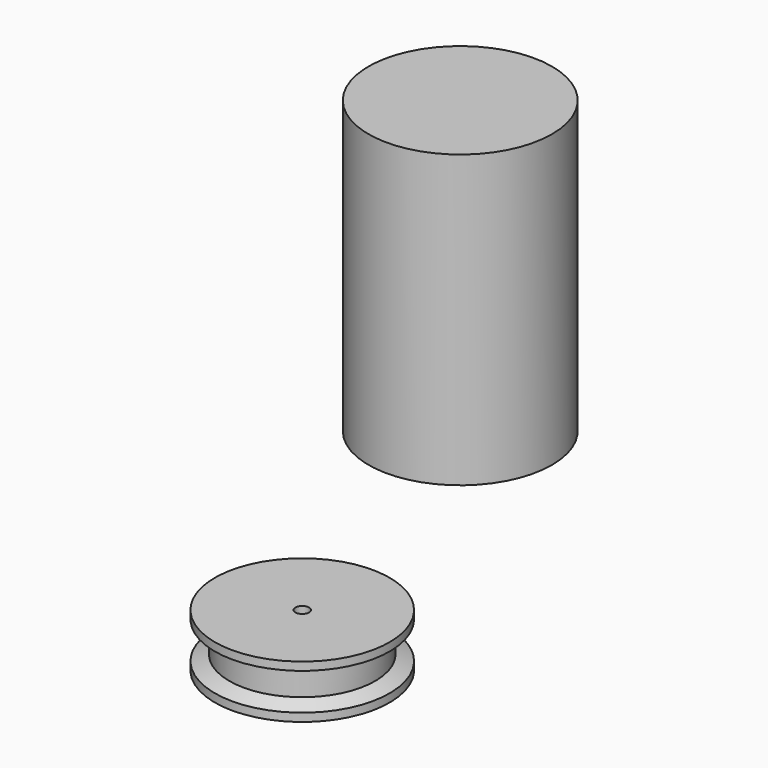
from build123d import *

# Parameters (mm, degrees)
F0_R     = 33.613623
F1_DEPTH = 106.7
F4_R     = 2.5
F5_DEPTH = 27.2


with BuildPart() as f1:
    # F0 (on Top) → F1 (new body)
    with BuildSketch(Plane.XY):
        Circle(F0_R)
    extrude(amount=F1_DEPTH)


with BuildPart() as f3:
    # F2 (on Right) → F3 (revolve)
    with BuildSketch(Plane.YZ):
        Polygon((-72.363789, -28.278395), (-104.363789, -28.278395), (-104.363789, -31.278395), (-99.077389, -33.522339), (-99.077389, -42.522339), (-104.363788, -44.766282), (-104.363788, -47.766282), (-72.363789, -47.766282), align=None)
    revolve(axis=Axis((0, -72.363789, -38.022339), (0, 0, -1)))

    # F4 (on face) → F5 (cut)
    with BuildSketch(Plane.XY.offset(-28.278395)):
        with Locations((0, -72.363789)):
            Circle(F4_R)
    extrude(amount=-F5_DEPTH, mode=Mode.SUBTRACT)


solid = Compound([f1.part, f3.part])
